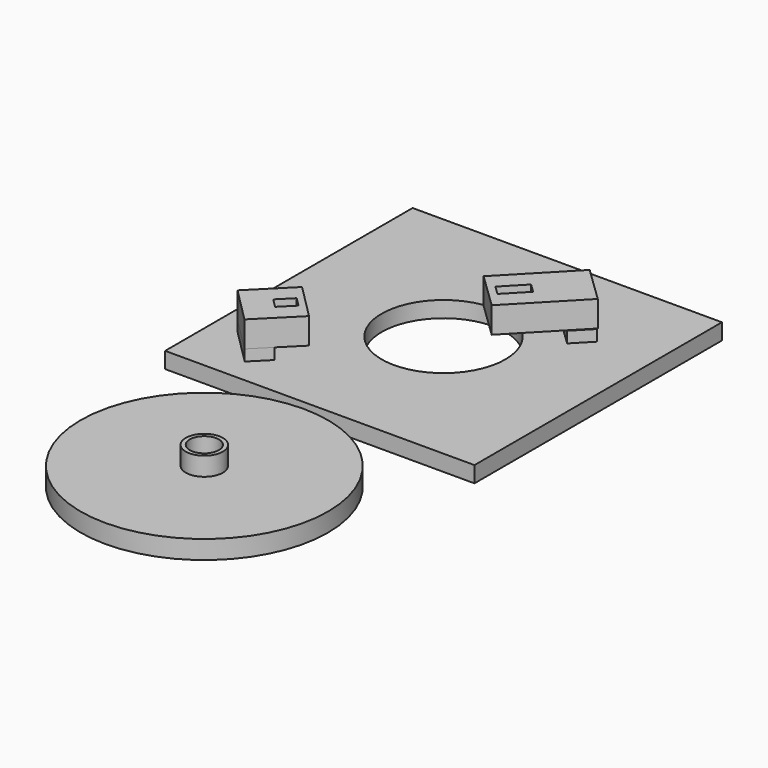
from build123d import *

# Parameters (mm, degrees)
SKETCH005_AS_DRAWN_W                      = 2.018315
SKETCH005_AS_DRAWN_H                      = 4.540272
EXTRUDE002_DEPTH                          = 4.5
EXTRUDE002_ONTO_SKETCH005_PLACEMENT_ANGLE = 136
BOX004_W                                  = 8
BOX004_H                                  = 13.5
BOX004_DEPTH                              = 4.2
BOX004_PLACEMENT_ANGLE                    = 136
BOX002_W                                  = 8
BOX002_H                                  = 3.8
BOX002_DEPTH                              = 1.8
BOX002_PLACEMENT_ANGLE                    = 136
SKETCH006_AS_DRAWN_W                      = 2.0548
SKETCH006_AS_DRAWN_H                      = 2.98173
EXTRUDE003_DEPTH                          = 4.5
EXTRUDE003_ONTO_SKETCH006_PLACEMENT_ANGLE = 135
BOX003_W                                  = 8
BOX003_H                                  = 8.2
BOX003_DEPTH                              = 4.2
BOX003_PLACEMENT_ANGLE                    = 135
BOX001_W                                  = 8
BOX001_H                                  = 3.8
BOX001_DEPTH                              = 1.8
BOX001_PLACEMENT_ANGLE                    = 135
CYLINDER_R                                = 10
CYLINDER_DEPTH                            = 2.6
BOX_W                                     = 50
BOX_H                                     = 50
BOX_DEPTH                                 = 2.6
CYLINDER001_R                             = 20
CYLINDER001_DEPTH                         = 3
SKETCH002_R                               = 3
SKETCH002_R_2                             = 2.35
EXTRUDE001_DEPTH                          = 6


with BuildPart() as extrude002:
    # Sketch005 as drawn → Extrude002 (new)
    with BuildSketch(Plane.XY):
        with Locations((3.98714, 10.110961)):
            Rectangle(SKETCH005_AS_DRAWN_W, SKETCH005_AS_DRAWN_H)
    extrude(amount=EXTRUDE002_DEPTH)


with BuildPart() as extrude002_1:
    # Extrude002 onto Sketch005 placement: moved
    add(extrude002.part.moved(Location((47.02, 42.01, 12.52))).rotate(Axis((47.02, 42.01, 12.52), (0, 0, 1)), EXTRUDE002_ONTO_SKETCH005_PLACEMENT_ANGLE))


with BuildPart() as extrude002_2:
    # Extrude002 placement: moved
    add(extrude002_1.part.moved(Location((0, 0, -4.5))))


with BuildPart() as cut003:
    # Box004 → Box004 (new body)
    with BuildSketch(Plane.XY):
        with Locations((4, 6.75)):
            Rectangle(BOX004_W, BOX004_H)
    extrude(amount=BOX004_DEPTH)


with BuildPart() as cut003_1:
    # Box004 placement: moved
    add(cut003.part.moved(Location((47.02, 42.01, 8.32))).rotate(Axis((47.02, 42.01, 8.32), (0, 0, 1)), BOX004_PLACEMENT_ANGLE))

    # Cut003: cut Extrude002
    add(extrude002_2.part, mode=Mode.SUBTRACT)


with BuildPart() as cut003_2:
    # Cut003 placement: moved
    add(cut003_1.part.moved(Location((-5.975619, -5.901068, -3.867182))))


with BuildPart() as fusion:
    # Box002 → Box002 (new body)
    with BuildSketch(Plane.XY):
        with Locations((4, 1.9)):
            Rectangle(BOX002_W, BOX002_H)
    extrude(amount=BOX002_DEPTH)


with BuildPart() as fusion_1:
    # Box002 placement: moved
    add(fusion.part.moved(Location((41, 36, 2.6))).rotate(Axis((41, 36, 2.6), (0, 0, 1)), BOX002_PLACEMENT_ANGLE))

    # Fusion: union Cut003
    add(cut003_2.part)


with BuildPart() as extrude003:
    # Sketch006 as drawn → Extrude003 (new)
    with BuildSketch(Plane.XY):
        with Locations((4.015499, 2.494238)):
            Rectangle(SKETCH006_AS_DRAWN_W, SKETCH006_AS_DRAWN_H)
    extrude(amount=EXTRUDE003_DEPTH)


with BuildPart() as extrude003_1:
    # Extrude003 onto Sketch006 placement: moved
    add(extrude003.part.moved(Location((15.55, 9.66, 12.99))).rotate(Axis((15.55, 9.66, 12.99), (0, 0, 1)), EXTRUDE003_ONTO_SKETCH006_PLACEMENT_ANGLE))


with BuildPart() as extrude003_2:
    # Extrude003 placement: moved
    add(extrude003_1.part.moved(Location((0, 0, -4.5))))


with BuildPart() as cut004:
    # Box003 → Box003 (new body)
    with BuildSketch(Plane.XY):
        with Locations((4, 4.1)):
            Rectangle(BOX003_W, BOX003_H)
    extrude(amount=BOX003_DEPTH)


with BuildPart() as cut004_1:
    # Box003 placement: moved
    add(cut004.part.moved(Location((15.55, 9.66, 8.79))).rotate(Axis((15.55, 9.66, 8.79), (0, 0, 1)), BOX003_PLACEMENT_ANGLE))

    # Cut004: cut Extrude003
    add(extrude003_2.part, mode=Mode.SUBTRACT)


with BuildPart() as cut004_2:
    # Cut004 placement: moved
    add(cut004_1.part.moved(Location((-0.080851, 0.078243, -4.376037))))


with BuildPart() as fusion001:
    # Box001 → Box001 (new body)
    with BuildSketch(Plane.XY):
        with Locations((4, 1.9)):
            Rectangle(BOX001_W, BOX001_H)
    extrude(amount=BOX001_DEPTH)


with BuildPart() as fusion001_1:
    # Box001 placement: moved
    add(fusion001.part.moved(Location((12.36, 6.67, 2.6))).rotate(Axis((12.36, 6.67, 2.6), (0, 0, 1)), BOX001_PLACEMENT_ANGLE))

    # Fusion001: union Cut004
    add(cut004_2.part)


with BuildPart() as cylinder:
    # Cylinder → Cylinder (new body)
    with BuildSketch(Plane(origin=(25, 25, 0), x_dir=(1, 0, 0), z_dir=(0, 0, 1))):
        Circle(CYLINDER_R)
    extrude(amount=CYLINDER_DEPTH)


with BuildPart() as fusion002:
    # Box → Box (new body)
    with BuildSketch(Plane.XY):
        with Locations((25, 25)):
            Rectangle(BOX_W, BOX_H)
    extrude(amount=BOX_DEPTH)

    # Cut: cut Cylinder
    add(cylinder.part, mode=Mode.SUBTRACT)

    # Fusion002: union Fusion, Fusion001
    add(fusion_1.part)
    add(fusion001_1.part)


with BuildPart() as cylinder001:
    # Cylinder001 → Cylinder001 (new body)
    with BuildSketch(Plane(origin=(25.88, -24.43, 1.58), x_dir=(1, 0, 0), z_dir=(0, 0, 1))):
        Circle(CYLINDER001_R)
    extrude(amount=CYLINDER001_DEPTH)


with BuildPart() as extrude001:
    # Sketch002 → Extrude001 (new body)
    with BuildSketch(Plane.XY):
        with Locations((25.84182, 74.524612)):
            Circle(SKETCH002_R)
        with Locations((25.84182, 74.524612)):
            Circle(SKETCH002_R_2, mode=Mode.SUBTRACT)
    extrude(amount=EXTRUDE001_DEPTH)


with BuildPart() as extrude001_1:
    # Extrude001 placement: moved
    add(extrude001.part.moved(Location((0.03818, -98.954612, 1.58))))


with BuildPart() as fusion003:
    # Fusion003 base: copy of Extrude001
    add(extrude001_1.part)

    # Fusion003: union Cylinder001
    add(cylinder001.part)


with BuildPart() as fusion004:
    # Fusion004 base: copy of Cylinder001
    add(cylinder001.part)

    # Fusion004: union Extrude001
    add(extrude001_1.part)


solid = Compound([fusion002.part, fusion003.part, fusion004.part])
